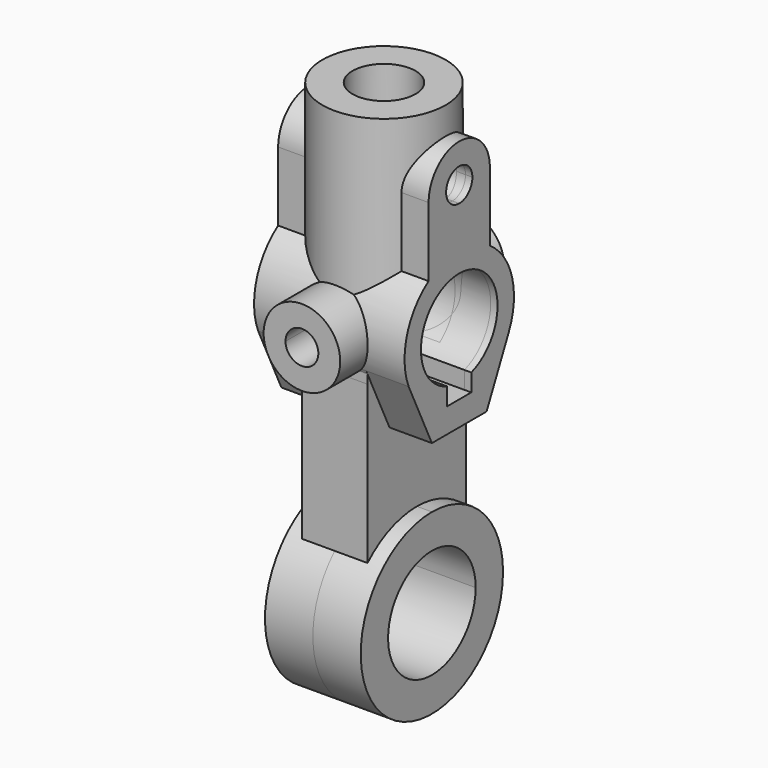
from build123d import *

# Parameters (mm, degrees)
F0_R      = 22.5
F0_R_2    = 11.5
F1_DEPTH  = 70
F3_DEPTH  = 27.5
F4_R      = 6
F5_DEPTH  = 25.0010001
F6_DEPTH  = 25
F7_R      = 14
F7_R_2    = 6
F8_DEPTH  = 37.5
F9_R      = 6
F10_DEPTH = 27.5010001
F11_DEPTH = 25
F13_DEPTH = 12
F15_DEPTH = 17.5
F17_DEPTH = 45.0010001
F18_R     = 6
F19_DEPTH = 75.0010001
F20_R     = 11.5
F21_DEPTH = 70


with BuildPart() as f1:
    # F0 (on Top) → F1 (new body)
    with BuildSketch(Plane.XY):
        Circle(F0_R)
        Circle(F0_R_2, mode=Mode.SUBTRACT)
    extrude(amount=F1_DEPTH)

    # F2 (on Right) → F3 (join, symmetric)
    with BuildSketch(Plane.YZ):
        with BuildLine():
            Line((-12.5, -32.0265873892), (0, -32.0265873892))
            Line((0, -32.0265873892), (12.5, -32.0265873892))
            Line((12.5, -32.0265873892), (22.59139561, -10.7064860898))
            ThreePointArc((22.59139561, -10.7064860898), (24.1146807243, 6.594101422), (14, 20.7123151772))
            Line((14, 20.7123151772), (14, 46))
            ThreePointArc((14, 46), (0, 60), (-14, 46))
            Line((-14, 46), (-14, 20.7123151772))
            ThreePointArc((-14, 20.7123151772), (-23.9322696161, 7.2281720388), (-23.1248051219, -9.4996519976))
            Line((-23.1248051219, -9.4996519976), (-12.5, -32.0265873892))
        make_face()
        with BuildLine():
            ThreePointArc((-5.5, -16.6132477258), (0, 17.5), (5.5, -16.6132477258))
            Line((5.5, -16.6132477258), (5.5, -23.0265873892))
            Line((5.5, -23.0265873892), (0, -23.0265873892))
            Line((0, -23.0265873892), (-5.5, -23.0265873892))
            Line((-5.5, -23.0265873892), (-5.5, -16.6132477258))
        make_face(mode=Mode.SUBTRACT)
        with BuildLine():
            ThreePointArc((0, 40), (-4.2426406871, 50.2426406871), (6, 46))
            ThreePointArc((6, 46), (4.2426406871, 41.7573593129), (0, 40))
        make_face(mode=Mode.SUBTRACT)
    extrude(amount=F3_DEPTH, both=True)

    # F4 (on Front) → F5 (cut, through all)
    with BuildSketch(Plane.XZ):
        Circle(F4_R)
    extrude(amount=-F5_DEPTH, mode=Mode.SUBTRACT)

    # F4 (on Front) → F6 (cut)
    with BuildSketch(Plane.XZ):
        Circle(F4_R)
    extrude(amount=F6_DEPTH, mode=Mode.SUBTRACT)

    # F7 (on Front) → F8 (join, symmetric)
    with BuildSketch(Plane.XZ):
        Circle(F7_R)
        Circle(F7_R_2, mode=Mode.SUBTRACT)
    extrude(amount=F8_DEPTH, both=True)

    # F9 (on Right) → F10 (cut, through all)
    with BuildSketch(Plane.YZ):
        with BuildLine():
            Line((5.5, -23), (5.5, -16.6132477258))
            ThreePointArc((5.5, -16.6132477258), (0, 17.5), (-5.5, -16.6132477258))
            Line((-5.5, -16.6132477258), (-5.5, -23))
            Line((-5.5, -23), (0, -23))
            Line((0, -23), (5.5, -23))
        make_face()
        with Locations((0, 46)):
            Circle(F9_R)
    extrude(amount=-F10_DEPTH, mode=Mode.SUBTRACT)

    # F9 (on Right) → F11 (cut)
    with BuildSketch(Plane.YZ):
        with BuildLine():
            Line((5.5, -23), (5.5, -16.6132477258))
            ThreePointArc((5.5, -16.6132477258), (0, 17.5), (-5.5, -16.6132477258))
            Line((-5.5, -16.6132477258), (-5.5, -23))
            Line((-5.5, -23), (0, -23))
            Line((0, -23), (5.5, -23))
        make_face()
        with Locations((0, 46)):
            Circle(F9_R)
    extrude(amount=F11_DEPTH, mode=Mode.SUBTRACT)

    # F12 (on Right) → F13 (join, symmetric)
    with BuildSketch(Plane.YZ):
        with BuildLine():
            Line((21.0305375969, -14), (22.59139561, -10.7064860898))
            ThreePointArc((22.59139561, -10.7064860898), (0, 25), (-22.59139561, -10.7064860898))
            Line((-22.59139561, -10.7064860898), (-21.0305375969, -14))
            Line((-21.0305375969, -14), (-10.5, -14))
            ThreePointArc((-10.5, -14), (0, 17.5), (10.5, -14))
            Line((10.5, -14), (21.0305375969, -14))
        make_face()
        Polygon((22.5878246032, -14), (22.59139561, -10.7064860898), (21.0305375969, -14), align=None)
        Polygon((-21.0305375969, -14), (-22.59139561, -10.7064860898), (-22.5878246032, -14), align=None)
        Polygon((22.5878246032, -14), (21.0305375969, -14), (12.5, -32), (0, -32), (0, -95), (22.5, -95), align=None)
        Polygon((-12.5, -32), (-21.0305375969, -14), (-22.5878246032, -14), (-22.5, -95), (0, -95), (0, -32), align=None)
    extrude(amount=F13_DEPTH, both=True)

    # F14 (on Right) → F15 (join, symmetric)
    with BuildSketch(Plane.YZ):
        with BuildLine():
            ThreePointArc((0, -62.5), (-22.9809703886, -117.9809703886), (32.5, -95))
            ThreePointArc((32.5, -95), (22.9809703886, -72.0190296114), (0, -62.5))
        make_face()
    extrude(amount=F15_DEPTH, both=True)

    # F16 (on face) → F17 (cut, through all)
    with BuildSketch(Plane.YZ.offset(17.5)):
        with BuildLine():
            ThreePointArc((0, -75), (-14.1421356237, -109.1421356237), (20, -95))
            ThreePointArc((20, -95), (14.1421356237, -80.8578643763), (0, -75))
        make_face()
    extrude(amount=-F17_DEPTH, mode=Mode.SUBTRACT)

    # F18 (on face) → F19 (cut, through all)
    with BuildSketch(Plane(origin=(0, 37.5, 0), x_dir=(-1, 0, 0), z_dir=(0, 1, 0))):
        Circle(F18_R)
    extrude(amount=-F19_DEPTH, mode=Mode.SUBTRACT)

    # F20 (on face) → F21 (cut)
    with BuildSketch(Plane.XY.offset(70)):
        Circle(F20_R)
    extrude(amount=-F21_DEPTH, mode=Mode.SUBTRACT)


solid = f1.part
